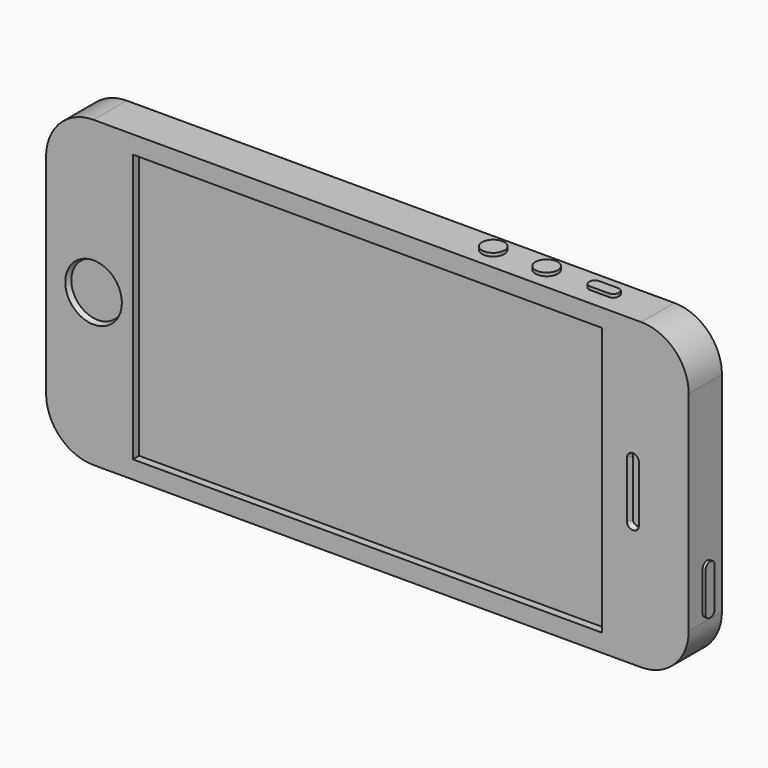
from build123d import *

# Parameters (mm, degrees)
F1_DEPTH  = 8
F2_R      = 5.45
F3_DEPTH  = 1
F3_TAPER  = 20
F5_DEPTH  = 1
F5_TAPER  = 20
F6_R      = 2.15
F7_DEPTH  = 0.63
F8_W      = 90.39
F8_H      = 51.7
F9_DEPTH  = 1.5
F11_DEPTH = 0.58


with BuildPart() as f1:
    # F0 (on Front) → F1 (new body)
    with BuildSketch(Plane.XZ):
        with BuildLine():
            ThreePointArc((-61.915, -20.125), (-59.2320981157, -26.6020981157), (-52.755, -29.285))
            Line((-52.755, -29.285), (52.755, -29.285))
            ThreePointArc((52.755, -29.285), (59.2320981157, -26.6020981157), (61.915, -20.125))
            Line((61.915, -20.125), (61.915, 20.125))
            ThreePointArc((61.915, 20.125), (59.2320981157, 26.6020981157), (52.755, 29.285))
            Line((52.755, 29.285), (-52.755, 29.285))
            ThreePointArc((-52.755, 29.285), (-59.2320981157, 26.6020981157), (-61.915, 20.125))
            Line((-61.915, 20.125), (-61.915, -20.125))
        make_face()
    extrude(amount=-F1_DEPTH)

    # F2 (on face) → F3 (cut)
    with BuildSketch(Plane.XZ):
        with Locations((-52.765, 0)):
            Circle(F2_R)
    extrude(amount=-F3_DEPTH, taper=F3_TAPER, mode=Mode.SUBTRACT)

    # F4 (on face) → F5 (cut)
    with BuildSketch(Plane.XZ):
        with BuildLine():
            ThreePointArc((52.315, 5.4), (51.165, 6.55), (50.015, 5.4))
            Line((50.015, 5.4), (50.015, -5.4))
            ThreePointArc((50.015, -5.4), (51.165, -6.55), (52.315, -5.4))
            Line((52.315, -5.4), (52.315, 5.4))
        make_face()
    extrude(amount=-F5_DEPTH, taper=F5_TAPER, mode=Mode.SUBTRACT)

    # F6 (on face) → F7 (join)
    with BuildSketch(Plane.XY.offset(29.285)):
        with Locations((20.695, 4.44)):
            Circle(F6_R)
        with Locations((30.985, 4.44)):
            Circle(F6_R)
        with BuildLine():
            Line((43.905, 5.55), (40.205, 5.55))
            ThreePointArc((40.205, 5.55), (39.4978932188, 5.2571067812), (39.205, 4.55))
            Line((39.205, 4.55), (39.205, 4.35))
            ThreePointArc((39.205, 4.35), (39.4978932188, 3.6428932188), (40.205, 3.35))
            Line((40.205, 3.35), (43.905, 3.35))
            ThreePointArc((43.905, 3.35), (44.6121067812, 3.6428932188), (44.905, 4.35))
            Line((44.905, 4.35), (44.905, 4.55))
            ThreePointArc((44.905, 4.55), (44.6121067812, 5.2571067812), (43.905, 5.55))
        make_face()
    extrude(amount=F7_DEPTH)

    # F8 (on face) → F9 (cut)
    with BuildSketch(Plane.XZ):
        Rectangle(F8_W, F8_H)
    extrude(amount=-F9_DEPTH, mode=Mode.SUBTRACT)

    # F10 (on face) → F11 (join)
    with BuildSketch(Plane.YZ.offset(61.915)):
        with BuildLine():
            Line((4.54, -9.985), (4.34, -9.985))
            ThreePointArc((4.34, -9.985), (3.6328932188, -10.2778932188), (3.34, -10.985))
            Line((3.34, -10.985), (3.34, -18.485))
            ThreePointArc((3.34, -18.485), (3.6328932188, -19.1921067812), (4.34, -19.485))
            Line((4.34, -19.485), (4.54, -19.485))
            ThreePointArc((4.54, -19.485), (5.2471067812, -19.1921067812), (5.54, -18.485))
            Line((5.54, -18.485), (5.54, -10.985))
            ThreePointArc((5.54, -10.985), (5.2471067812, -10.2778932188), (4.54, -9.985))
        make_face()
    extrude(amount=F11_DEPTH)


solid = f1.part
